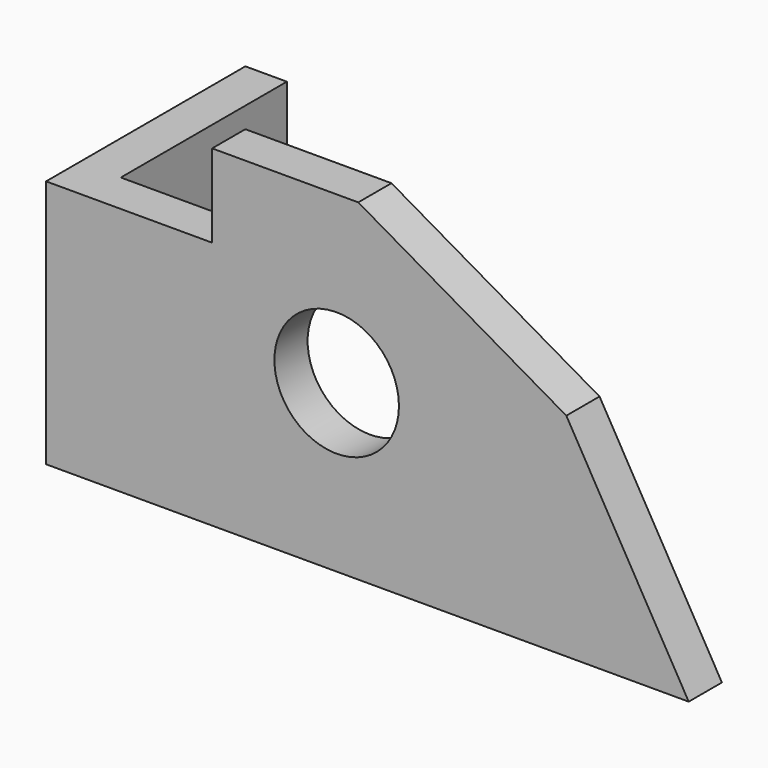
from build123d import *

# Parameters (mm, degrees)
F0_R     = 9.525
F1_DEPTH = 6.35
F3_DEPTH = 38.1


with BuildPart() as f1:
    # F0 (on Front) → F1 (new body)
    with BuildSketch(Plane.XZ):
        Polygon((-50.615386, -5.519743), (41.332614, -5.519743), (22.611523, 26.906136), (-9.213386, 45.280257), (-31.565386, 45.280257), (-31.565386, 32.580257), (-50.615386, 32.580257), align=None)
        with Locations((-12.515386, 19.880257)):
            Circle(F0_R, mode=Mode.SUBTRACT)
    extrude(amount=F1_DEPTH)

    # F2 (on face) → F3 (join)
    with BuildSketch(Plane.XY.offset(32.580257)):
        Polygon((-56.965386, -6.35), (-50.615386, -6.35), (-50.615386, 0), (-50.615386, 31.75), (-56.965386, 31.75), align=None)
    extrude(amount=-F3_DEPTH)


solid = f1.part
